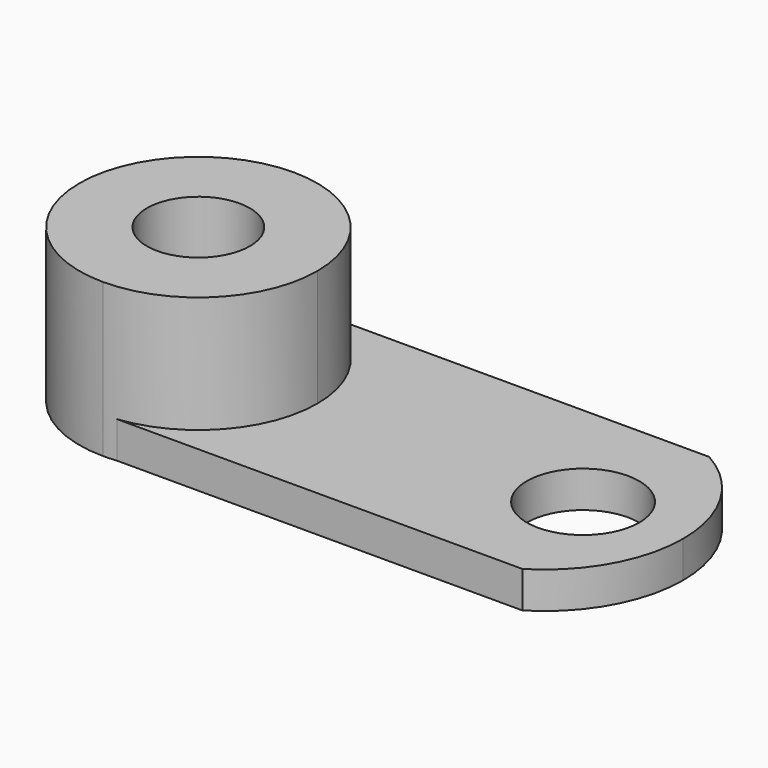
from build123d import *

# Parameters (mm, degrees)
F1_DEPTH = 33.02
F2_W     = 107.3515489697
F2_H     = 51.5172313899
F3_DEPTH = 7.874
F5_R     = 11.0954635734
F4_R     = 12.1126546704
F6_DEPTH = 81.534
F8_DEPTH = 25.4


with BuildPart() as f1:
    # F0 (on Top) → F1 (new body)
    with BuildSketch(Plane.XY):
        with BuildLine():
            ThreePointArc((-47.0562428236, -25.6296646715), (-28.9333331349, -18.1229096887), (-21.4265781521, 0))
            ThreePointArc((-21.4265781521, 0), (-28.9333331349, 18.1229096887), (-47.0562428236, 25.6296646715))
            ThreePointArc((-47.0562428236, 25.6296646715), (-72.6859074951, 0), (-47.0562428236, -25.6296646715))
        make_face()
    extrude(amount=F1_DEPTH)

    # F2 (on Top) → F3 (join)
    with BuildSketch(Plane.XY):
        with Locations((6.0439221561, 0.2878056839)):
            Rectangle(F2_W, F2_H)
    extrude(amount=F3_DEPTH)

    # F5 (on face) + F4 (on face) → F6 (cut)
    with BuildSketch(Plane.XY.offset(33.02)):
        with Locations((-47.0562428236, 0)):
            Circle(F5_R)
    with BuildSketch(Plane.XY.offset(7.874)):
        with Locations((35.8318202198, 0)):
            Circle(F4_R)
    extrude(amount=-F6_DEPTH, mode=Mode.SUBTRACT)

    # F7 (on face) → F8 (cut)
    with BuildSketch(Plane.XY.offset(7.874)):
        with BuildLine():
            ThreePointArc((42.1889192994, 26.0464213789), (53.3155577455, 15.0802409672), (57.3954509182, 0))
            ThreePointArc((57.3954509182, 0), (53.5965706877, -14.5882662321), (43.164924434, -25.470810011))
            Line((43.164924434, -25.470810011), (59.719696641, -25.470810011))
            Line((59.719696641, -25.470810011), (59.719696641, 26.0464213789))
            Line((59.719696641, 26.0464213789), (42.1889192994, 26.0464213789))
        make_face()
    extrude(amount=-F8_DEPTH, mode=Mode.SUBTRACT)


solid = f1.part
